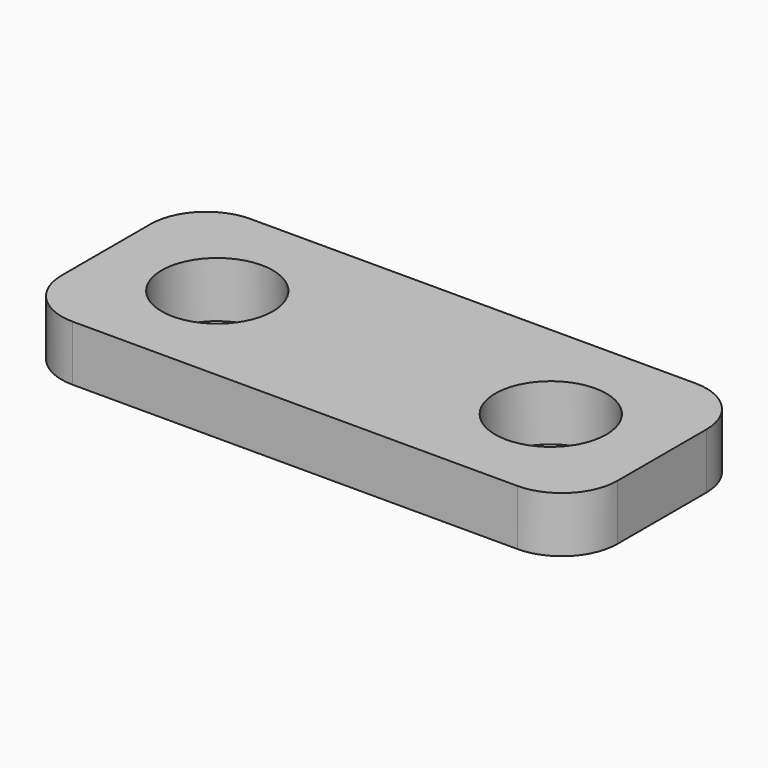
from build123d import *

# Parameters (mm, degrees)
F0_W     = 50
F0_H     = 20
F1_DEPTH = 5
F2_R     = 5
F3_DEPTH = 5
F4_R     = 5
F5_DEPTH = 5
F6_R     = 5


with BuildPart() as f1:
    # F0 (on Top) → F1 (new body)
    with BuildSketch(Plane.XY):
        with Locations((15, 0)):
            Rectangle(F0_W, F0_H)
    extrude(amount=F1_DEPTH)

    # F2 (on face) → F3 (cut, through all)
    with BuildSketch(Plane.XY.offset(5)):
        Circle(F2_R)
    extrude(amount=-F3_DEPTH, mode=Mode.SUBTRACT)

    # F4 (on face) → F5 (cut, through all)
    with BuildSketch(Plane.XY.offset(5)):
        with Locations((30, 0)):
            Circle(F4_R)
    extrude(amount=-F5_DEPTH, mode=Mode.SUBTRACT)

    # F6
    f6_edges = [f1.edges().sort_by_distance(p)[0] for p in [
        (-10, 10, 2.5),
        (-10, -10, 2.5),
        (40, 10, 2.5),
        (40, -10, 2.5),
    ]]
    fillet(f6_edges, radius=F6_R)


solid = f1.part
